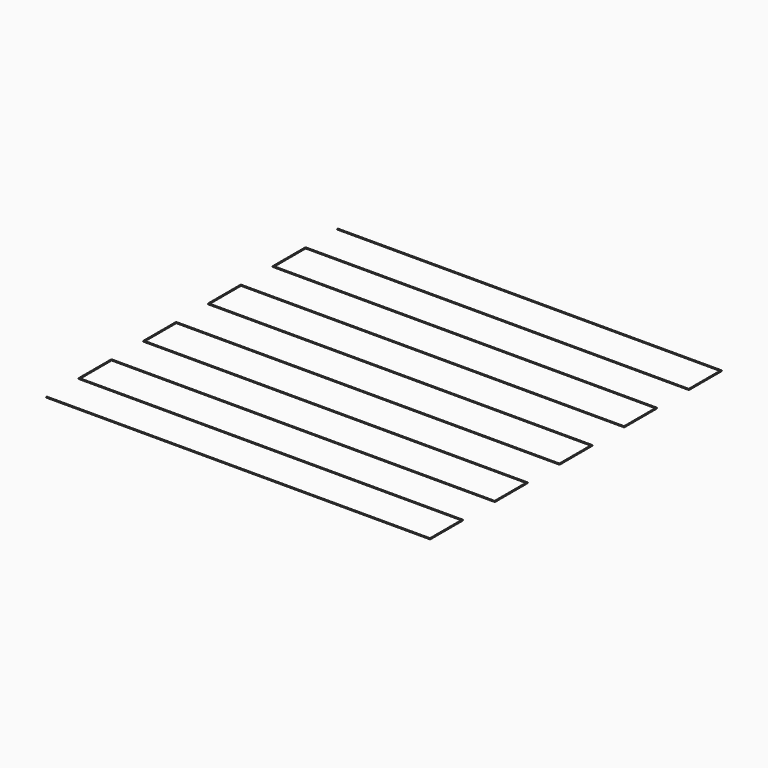
from build123d import *

# Parameters (mm, degrees)
F1_DEPTH = 0.3


with BuildPart() as f1:
    # F0 (on Top) → F1 (new body)
    with BuildSketch(Plane.XY):
        Polygon((100, 48.856538), (-90, 48.856538), (-90, 48.456538), (99.6, 48.456538), (99.6, 28.856538), (-90, 28.856538), (-90, 28.456538), (-90, 8.856538), (-90, 8.456538), (99.6, 8.456538), (99.6, -11.143462), (-90, -11.143462), (-90, -11.543462), (-90, -31.143462), (-90, -31.543462), (99.6, -31.543462), (99.6, -51.143462), (-90, -51.143462), (-90, -51.543462), (-90, -71.143462), (-90, -71.543462), (99.6, -71.543462), (99.6, -91.143462), (-90, -91.143462), (-90, -91.543462), (-90, -111.143462), (-89.6, -111.143462), (-89.6, -91.543462), (100, -91.543462), (100, -71.543462), (100, -71.143462), (-89.6, -71.143462), (-89.6, -51.543462), (100, -51.543462), (100, -31.543462), (100, -31.143462), (-89.6, -31.143462), (-89.6, -11.543462), (100, -11.543462), (100, 8.456538), (100, 8.856538), (-89.6, 8.856538), (-89.6, 28.456538), (100, 28.456538), (100, 48.456538), align=None)
        Polygon((100, -111.143462), (-89.6, -111.143462), (-90, -111.143462), (-90, -111.543462), (99.6, -111.543462), (99.6, -131.143462), (-90, -131.143462), (-90, -131.543462), (-89.6, -131.543462), (100, -131.543462), (100, -111.543462), align=None)
    extrude(amount=F1_DEPTH)


solid = f1.part
